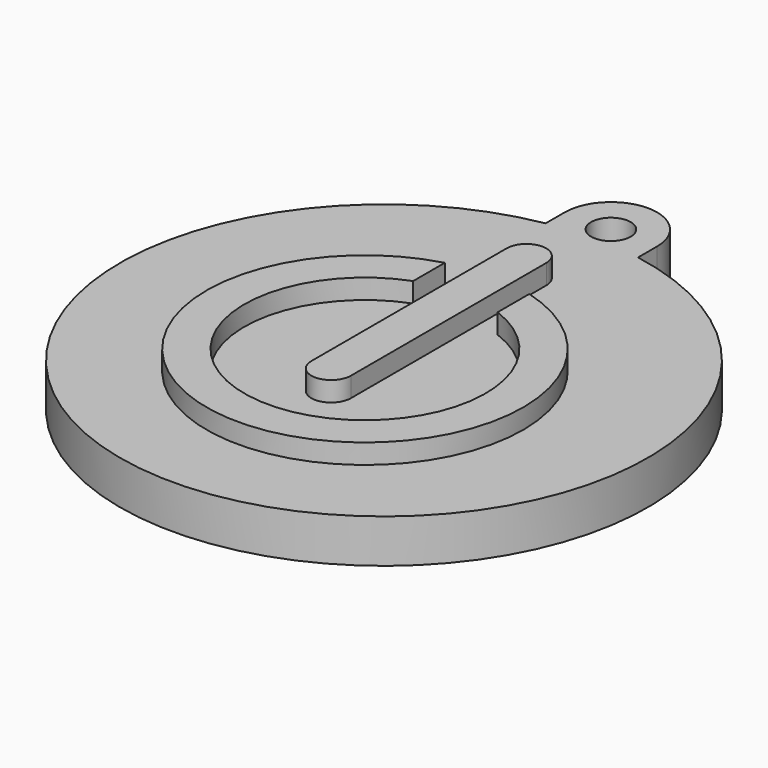
from build123d import *

# Parameters (mm, degrees)
EXTRUDE_DEPTH = 3.3
SKETCH001_R   = 1.5
POCKET_DEPTH  = 3.301
PAD_DEPTH     = 1.5


with BuildPart() as part:
    # Sketch → Extrude (new body)
    with BuildSketch(Plane.XY):
        with BuildLine():
            ThreePointArc((3.5, 21.5), (0, 25), (-3.5, 21.5))
            Line((-3.5, 21.5), (-3.5, 19.691369))
            ThreePointArc((-3.5, 19.691369), (0, -20), (3.5, 19.691369))
            Line((3.5, 19.691369), (3.5, 21.5))
        make_face()
    extrude(amount=EXTRUDE_DEPTH)

    # Sketch001 → Pocket (cut, through all)
    with BuildSketch(Plane.XY.offset(3.3)):
        with Locations((0, 21.5)):
            Circle(SKETCH001_R)
    extrude(amount=-POCKET_DEPTH, mode=Mode.SUBTRACT)

    # Sketch002 → Pad (new body, symmetric)
    with BuildSketch(Plane.XY.offset(3.3)):
        with BuildLine():
            Line((-1.5, 13.5), (-1.5, -5))
            ThreePointArc((-1.5, -5), (0, -6.5), (1.5, -5))
            Line((1.5, -5), (1.5, 13.5))
            ThreePointArc((1.5, 13.5), (0, 15), (-1.5, 13.5))
        make_face()
        with BuildLine():
            ThreePointArc((-3.2, 6.765466), (0, -10.943698), (3.2, 6.765466))
            Line((3.2, 9.765466), (3.2, 6.765466))
            ThreePointArc((-3.2, 9.765466), (0, -13.8), (3.2, 9.765466))
            Line((-3.2, 6.765466), (-3.2, 9.765466))
        make_face()
    extrude(amount=PAD_DEPTH, both=True)


solid = part.part
